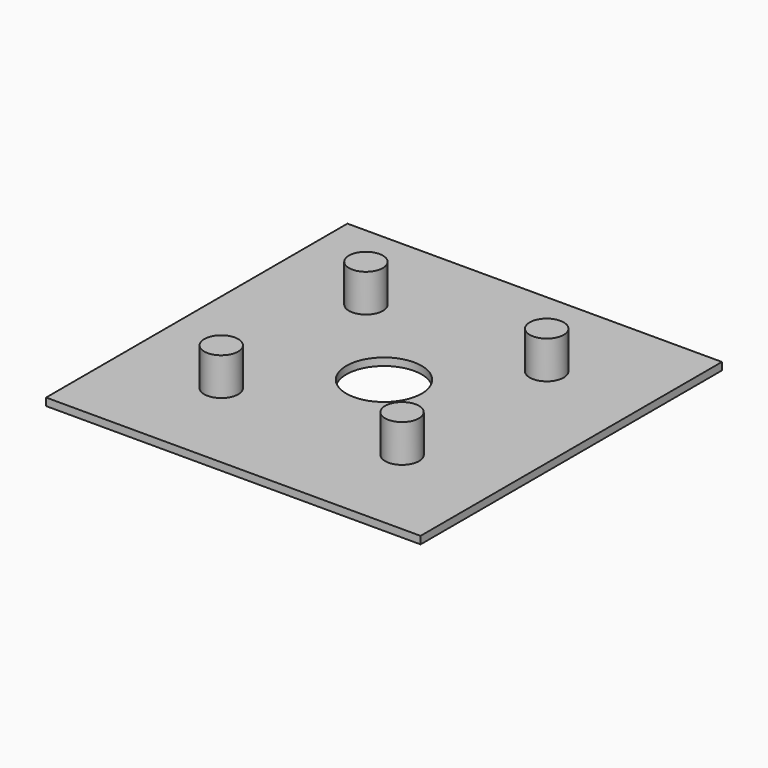
from build123d import *

# Parameters (mm, degrees)
F0_W     = 49.706
F0_H     = 50
F1_DEPTH = 1
F2_R     = 2.25
F3_DEPTH = 5
F4_R     = 5
F5_DEPTH = 25


with BuildPart() as f1:
    # F0 (on Top) → F1 (new body)
    with BuildSketch(Plane.XY):
        Rectangle(F0_W, F0_H)
    extrude(amount=F1_DEPTH)

    # F2 (on face) → F3 (join)
    with BuildSketch(Plane.XY.offset(1)):
        with Locations((-12, 12)):
            Circle(F2_R)
        with Locations((12, 12)):
            Circle(F2_R)
        with Locations((-12, -12)):
            Circle(F2_R)
        with Locations((12, -12)):
            Circle(F2_R)
    extrude(amount=F3_DEPTH)

    # F4 (on face) → F5 (cut)
    with BuildSketch(Plane.XY.offset(1)):
        Circle(F4_R)
    extrude(amount=-F5_DEPTH, mode=Mode.SUBTRACT)


solid = f1.part
